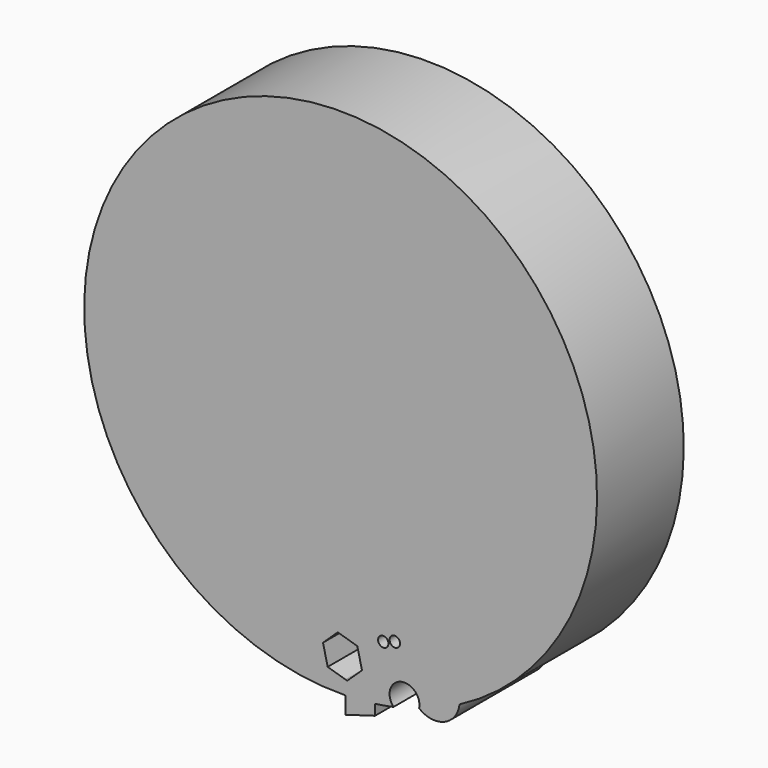
from build123d import *

# Parameters (mm, degrees)
F0_R     = 12.1654817783
F0_R_2   = 12.3094418461
F1_DEPTH = 254


with BuildPart() as f1:
    # F0 (on Front) → F1 (new body)
    with BuildSketch(Plane.XZ):
        with BuildLine():
            Line((-244.6754564072, -95.9572500223), (-248.3565956354, -94.854135785))
            Line((-248.3565956354, -94.854135785), (-248.3565956354, -127.5566222325))
            ThreePointArc((-248.3565956354, -127.5566222325), (-213.8078944202, -125.8910654203), (-179.4121861458, -122.2411219335))
            Line((-179.4121861458, -122.2411219335), (-179.4121861458, -58.1807047129))
            Line((-179.4121861458, -58.1807047129), (-217.1610821121, -70.0124311765))
            Line((-217.1610821121, -70.0124311765), (-244.6754564072, -95.9572500223))
        make_face()
        with BuildLine():
            Line((-248.3565956354, -127.5566222325), (-248.3565956354, -94.854135785))
            Line((-248.3565956354, -94.854135785), (-290.3897309912, -82.2582117584))
            Line((-290.3897309912, -82.2582117584), (-301.3831531393, -35.8189695212))
            Line((-301.3831531393, -35.8189695212), (-266.6623007034, -3.0787655479))
            Line((-266.6623007034, -3.0787655479), (-220.9480261194, -16.7778038117))
            Line((-220.9480261194, -16.7778038117), (-209.9546039713, -63.2170460489))
            Line((-209.9546039713, -63.2170460489), (-217.1610821121, -70.0124311765))
            Line((-217.1610821121, -70.0124311765), (-179.4121861458, -58.1807047129))
            Line((-179.4121861458, -58.1807047129), (-179.4121861458, -122.2411219335))
            ThreePointArc((-179.4121861458, -122.2411219335), (-157.6679238797, -118.8925887902), (-136.0607594252, -114.7506013513))
            ThreePointArc((-136.0607594252, -114.7506013513), (-139.0216639455, -70.9358153589), (-96.8521743572, -58.6787123162))
            ThreePointArc((-96.8521743572, -58.6787123162), (-38.8407590079, 4.8396231382), (18.5831978775, -59.210298215))
            ThreePointArc((18.5831978775, -59.210298215), (-409.1140131264, 1055.7782487651), (-248.3565956354, -127.5566222325))
        make_face()
        with Locations((-160.0868552923, 12.0240524411)):
            Circle(F0_R, mode=Mode.SUBTRACT)
        with Locations((-132.9269260168, 20.9090542048)):
            Circle(F0_R_2, mode=Mode.SUBTRACT)
        with BuildLine():
            ThreePointArc((-179.4121861458, -122.2411219335), (-213.8078944202, -125.8910654203), (-248.3565956354, -127.5566222325))
            Line((-248.3565956354, -127.5566222325), (-248.3565956354, -167.3867851496))
            Line((-248.3565956354, -167.3867851496), (-179.4121861458, -147.1127271652))
            Line((-179.4121861458, -147.1127271652), (-179.4121861458, -122.2411219335))
        make_face()
        with BuildLine():
            ThreePointArc((-75.2215410202, -98.5602818592), (-27.4853011776, -80.873117917), (18.5831978775, -59.210298215))
            ThreePointArc((18.5831978775, -59.210298215), (-38.8407590079, 4.8396231382), (-96.8521743572, -58.6787123162))
            ThreePointArc((-96.8521743572, -58.6787123162), (-79.3970992955, -74.572736982), (-75.9955495596, -97.9335829616))
            ThreePointArc((-75.9955495596, -97.9335829616), (-75.60989028, -98.2485935492), (-75.2215410202, -98.5602818592))
        make_face()
        with BuildLine():
            ThreePointArc((-75.2215410202, -98.5602818592), (-16.6690404085, -106.6575382222), (18.5831978775, -59.210298215))
            ThreePointArc((18.5831978775, -59.210298215), (-27.4853011776, -80.873117917), (-75.2215410202, -98.5602818592))
        make_face()
    extrude(amount=F1_DEPTH)


solid = f1.part
